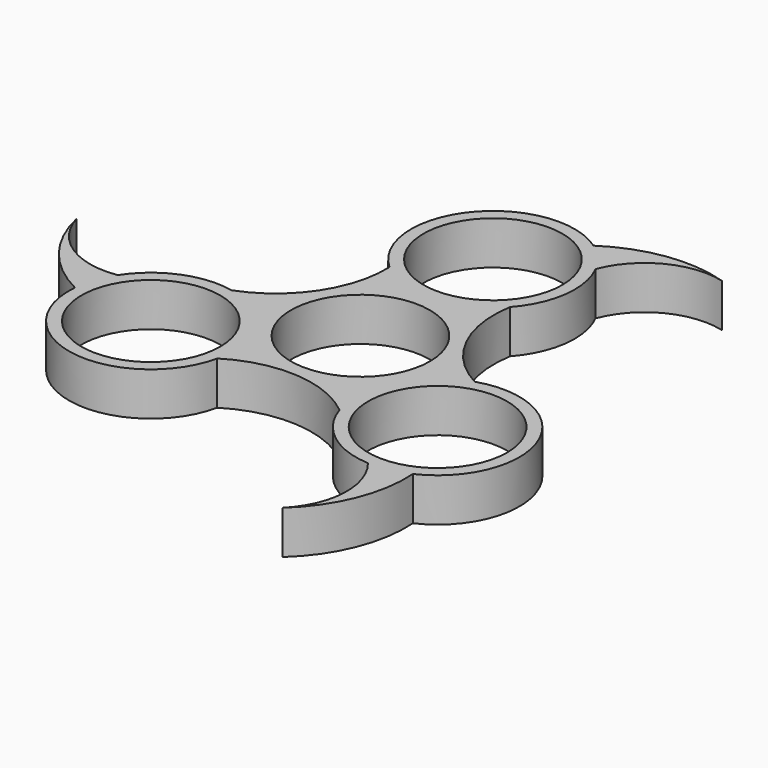
from build123d import *

# Parameters (mm, degrees)
F0_R     = 11.2
F1_DEPTH = 7


with BuildPart() as f1:
    # F0 (on Top) → F1 (new body)
    with BuildSketch(Plane.XY):
        with BuildLine():
            ThreePointArc((19.065407, -0.799671), (11.427744, 7.052626), (9.815209, 17.887393))
            ThreePointArc((9.815209, 17.887393), (13.087669, 24.995181), (11.760994, 32.706833))
            ThreePointArc((11.760994, 32.706833), (9.96033, 35.375677), (7.567149, 37.529234))
            ThreePointArc((7.567149, 37.529234), (-10.328767, 34.932866), (-8.840168, 16.910962))
            ThreePointArc((-8.840168, 16.910962), (-11.821625, 6.370404), (-20.398542, -0.443476))
            ThreePointArc((-20.398542, -0.443476), (-28.190297, -1.163337), (-34.205446, -6.168097))
            ThreePointArc((-34.205446, -6.168097), (-35.6164, -9.06194), (-36.284845, -12.211274))
            ThreePointArc((-36.284845, -12.211274), (-25.088366, -26.411408), (-10.225239, -16.111292))
            ThreePointArc((-10.225239, -16.111292), (0.393881, -13.42303), (10.583332, -17.443917))
            ThreePointArc((10.583332, -17.443917), (15.102627, -23.831845), (22.444451, -26.538736))
            ThreePointArc((22.444451, -26.538736), (25.65607, -26.313737), (28.717696, -25.31796))
            ThreePointArc((28.717696, -25.31796), (35.417133, -8.521458), (19.065407, -0.799671))
        make_face()
        with Locations((-23.134644, -13.356793)):
            Circle(F0_R, mode=Mode.SUBTRACT)
        with Locations((23.134644, -13.356793)):
            Circle(F0_R, mode=Mode.SUBTRACT)
        Circle(F0_R, mode=Mode.SUBTRACT)
        with Locations((0, 26.713585)):
            Circle(F0_R, mode=Mode.SUBTRACT)
        with BuildLine():
            ThreePointArc((7.567149, 37.529234), (9.96033, 35.375677), (11.760994, 32.706833))
            ThreePointArc((11.760994, 32.706833), (17.558388, 39.183611), (26.197545, 40.144548))
            ThreePointArc((26.197545, 40.144548), (16.584515, 40.958518), (7.567149, 37.529234))
        make_face()
        with BuildLine():
            ThreePointArc((21.667426, -42.760014), (27.17886, -34.841871), (28.717696, -25.31796))
            ThreePointArc((28.717696, -25.31796), (25.65607, -26.313737), (22.444451, -26.538736))
            ThreePointArc((22.444451, -26.538736), (25.154808, -34.797816), (21.667426, -42.760014))
        make_face()
        with BuildLine():
            ThreePointArc((-36.284845, -12.211274), (-35.6164, -9.06194), (-34.205446, -6.168097))
            ThreePointArc((-34.205446, -6.168097), (-42.713197, -4.385795), (-47.864971, 2.615466))
            ThreePointArc((-47.864971, 2.615466), (-43.763375, -6.116647), (-36.284845, -12.211274))
        make_face()
    extrude(amount=F1_DEPTH)


solid = f1.part
